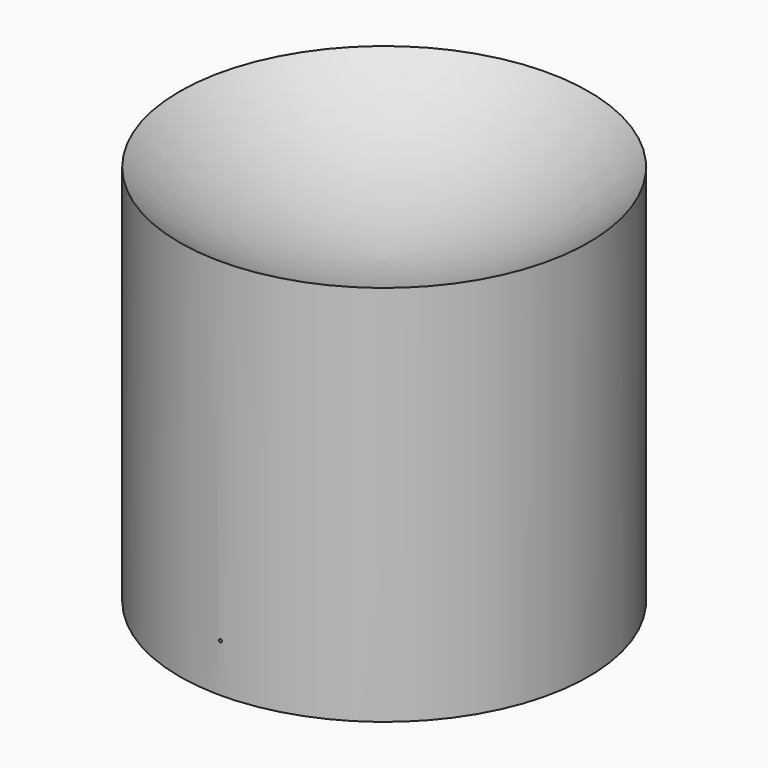
from build123d import *

# Parameters (mm, degrees)
F3_R     = 0.1
F4_DEPTH = 30


with BuildPart() as f2:
    # F0 (on Front) → F2 (revolve)
    with BuildSketch(Plane.XZ):
        with BuildLine():
            Line((-13.6, 0), (0, 0))
            Line((0, 0), (0, 20))
            ThreePointArc((0, 20), (-7.285552, 21.477128), (-13.6, 25.4))
            Line((-13.6, 25.4), (-13.6, 0))
        make_face()
    revolve(axis=Axis((0, 0, -5.01422), (0, 0, -1)))

    # F3 (on Front) → F4 (cut, symmetric)
    with BuildSketch(Plane.XZ):
        with Locations((0, 3.2)):
            Circle(F3_R)
    extrude(amount=F4_DEPTH, both=True, mode=Mode.SUBTRACT)


solid = f2.part
